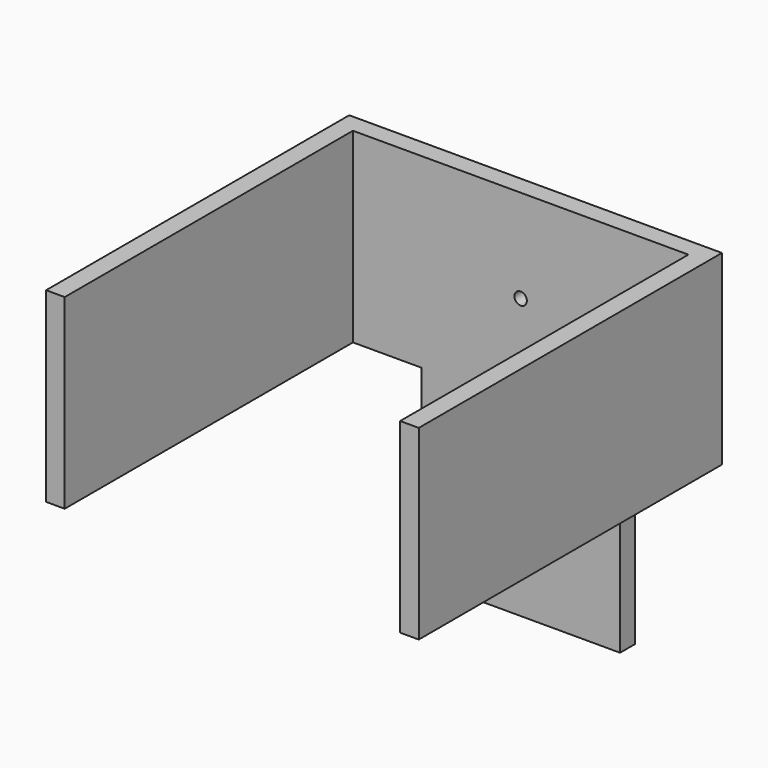
from build123d import *

# Parameters (mm, degrees)
SKETCH001_R      = 0.5
SKETCH001_W      = 18
SKETCH001_H      = 16
EXTRUDE001_DEPTH = 32
EXTRUDE_DEPTH    = 15


with BuildPart() as extrude001:
    # Sketch001 → Extrude001 (new body)
    with BuildSketch(Plane(origin=(0, 31, 0), x_dir=(-1, 0, 0), z_dir=(0, 1, 0))):
        with Locations((0, 7.5)):
            Circle(SKETCH001_R)
        with Locations((-17, -8)):
            Rectangle(SKETCH001_W, SKETCH001_H)
        with Locations((17, -8)):
            Rectangle(SKETCH001_W, SKETCH001_H)
    extrude(amount=-EXTRUDE001_DEPTH)


with BuildPart() as cut:
    # Sketch → Extrude (new body, symmetric)
    with BuildSketch(Plane.XY):
        Polygon((-13.5, 0), (-13.5, 29), (13.5, 29), (13.5, 0), (15, 0), (15, 30.5), (-15, 30.5), (-15, 0), align=None)
    extrude(amount=EXTRUDE_DEPTH, both=True)

    # Cut: cut Extrude001
    add(extrude001.part, mode=Mode.SUBTRACT)


solid = cut.part
